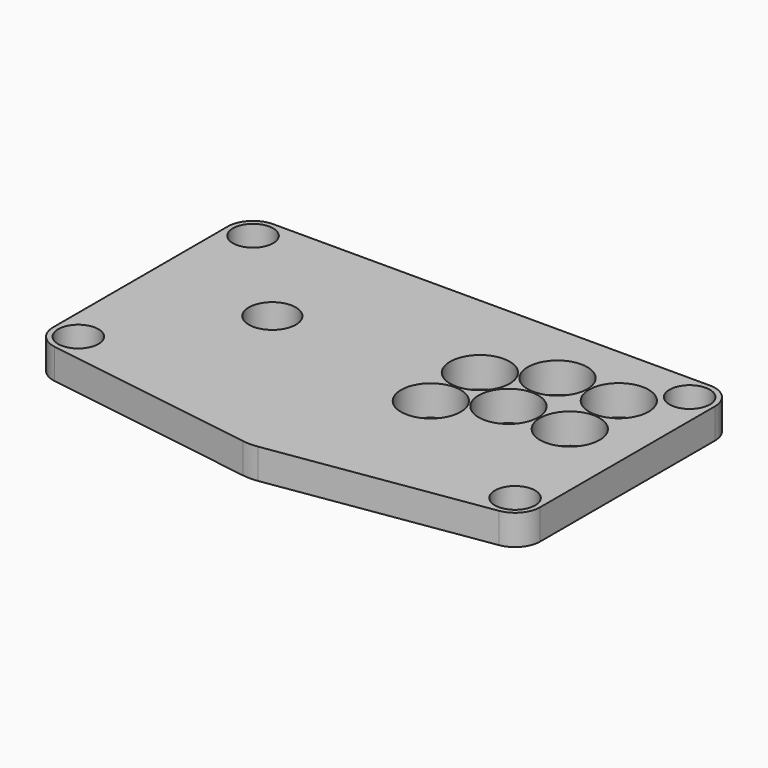
from build123d import *

# Parameters (mm, degrees)
F0_R     = 12
F0_R_2   = 17.75
F0_R_3   = 14
F1_DEPTH = 18


with BuildPart() as f1:
    # F0 (on Top) → F1 (new body)
    with BuildSketch(Plane.XY):
        with BuildLine():
            ThreePointArc((145, 63.942884), (140.606602, 74.549485), (130, 78.942884))
            Line((130, 78.942884), (-130, 78.942884))
            ThreePointArc((-130, 78.942884), (-140.606602, 74.549485), (-145, 63.942884))
            Line((-145, 63.942884), (-145, -66.057116))
            ThreePointArc((-145, -66.057116), (-141.378114, -75.831498), (-132.261529, -80.885653))
            Line((-132.261529, -80.885653), (-4.523058, -100.367296))
            ThreePointArc((-4.523058, -100.367296), (0, -100.710224), (4.523058, -100.367296))
            Line((4.523058, -100.367296), (132.261529, -80.885653))
            ThreePointArc((132.261529, -80.885653), (141.378114, -75.831498), (145, -66.057116))
            Line((145, -66.057116), (145, 63.942884))
        make_face()
        with Locations((-130, -66.057116)):
            Circle(F0_R, mode=Mode.SUBTRACT)
        with Locations((130, -66.057116)):
            Circle(F0_R, mode=Mode.SUBTRACT)
        with Locations((38.445036, -14.252153)):
            Circle(F0_R_2, mode=Mode.SUBTRACT)
        with Locations((-72.5, 6.442884)):
            Circle(F0_R_3, mode=Mode.SUBTRACT)
        with Locations((-130, 63.942884)):
            Circle(F0_R, mode=Mode.SUBTRACT)
        with Locations((70.054964, 3.997847)):
            Circle(F0_R_2, mode=Mode.SUBTRACT)
        with Locations((38.445036, 22.247847)):
            Circle(F0_R_2, mode=Mode.SUBTRACT)
        with Locations((106.554964, 3.997847)):
            Circle(F0_R_2, mode=Mode.SUBTRACT)
        with Locations((70.054964, 40.497847)):
            Circle(F0_R_2, mode=Mode.SUBTRACT)
        with Locations((106.554964, 40.497847)):
            Circle(F0_R_2, mode=Mode.SUBTRACT)
        with Locations((130, 63.942884)):
            Circle(F0_R, mode=Mode.SUBTRACT)
    extrude(amount=F1_DEPTH)


solid = f1.part
